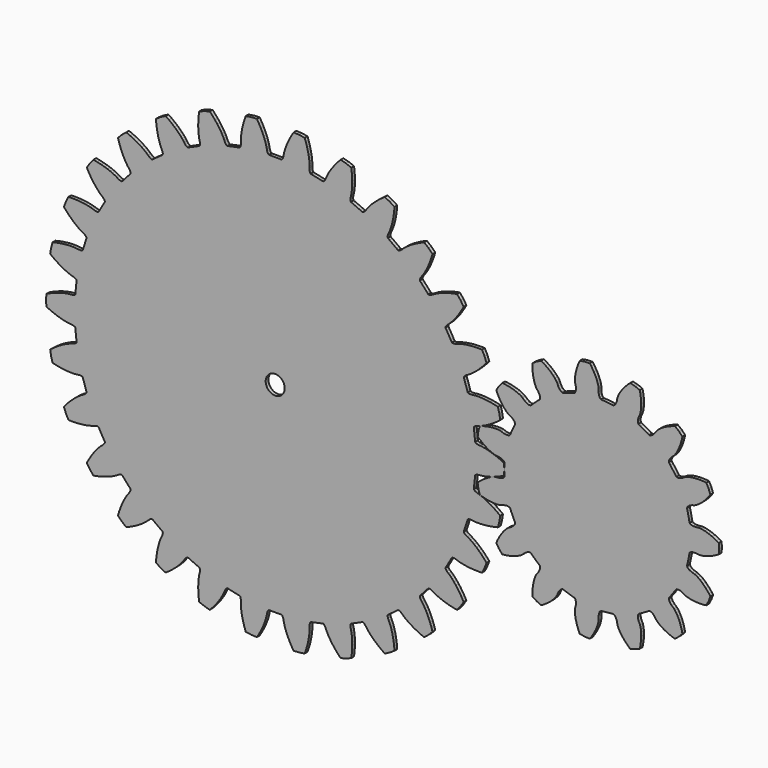
from build123d import *

# Parameters (mm, degrees)
F0_R     = 5.7700126409
F1_DEPTH = 4
F0_R_2   = 11
F2_DEPTH = 4


with BuildPart() as f1:
    # F0 (on Front) → F1 (new body)
    with BuildSketch(Plane.XZ):
        Polygon((114.9913551781, 35.7985797549), (112.1215935407, 34.8170660905), (110.5144807482, 29.2123966515), (109.7030266481, 23.4386052753), (111.9254650622, 21.3747094814), (116.350951765, 17.9069639934), (120.3624429906, 15.2737411137), (123.8561477626, 13.3782546606), (126.7418230932, 12.1126313744), (128.9438500898, 11.3594919007), (130.4021715823, 10.9936817938), (131.0730162596, 10.8840457954), (134.4409838148, 10.6200619755), (137.4597964027, 9.8402621613), (139.5397876451, 8.7015704845), (140.6481175186, 7.3563960426), (140.7709206844, 5.9596232683), (140.6481175186, 4.4971964122), (140.6481175186, -4.4971964122), (140.7709206844, -5.9596232683), (140.6481175186, -7.3563960426), (139.5397876451, -8.7015704845), (137.4597964027, -9.8402621613), (134.4409838148, -10.6200619755), (131.0730162596, -10.8840457954), (130.4021715823, -10.9936817938), (128.9438500898, -11.3594919007), (126.7418230932, -12.1126313744), (123.8561477626, -13.3782546606), (120.3624429906, -15.2737411137), (116.350951765, -17.9069639934), (111.9254650622, -21.3747094814), (109.7030266481, -23.4386052753), (110.5144807482, -29.2123966515), (112.1215935407, -34.8170660905), (114.9913551781, -35.7985797549), (120.4446945119, -37.1665168942), (125.1804030259, -37.9404659162), (129.1430251346, -38.2510598932), (132.2939969628, -38.2335565617), (134.6119781209, -38.0259371043), (136.0930074958, -37.7669674249), (136.7504484352, -37.5942680801), (139.9346122575, -36.4655527541), (143.0096074524, -35.9500743054), (145.3729207099, -36.144313105), (146.9325636135, -36.9223905707), (147.6128682255, -38.1484575395), (148.0955066508, -39.5344000012), (151.7538558308, -47.751188501), (152.4608640584, -49.0372318597), (152.9167959831, -50.3631979316), (152.4514156637, -52.0428743952), (151.0143999406, -53.929128829), (148.5737512119, -55.8693732654), (145.6043299269, -57.480412551), (145.0360760633, -57.853426518), (143.8526206333, -58.7807626545), (142.1472964663, -60.3644347731), (140.0258794226, -62.6943483161), (137.6051833955, -65.8469790227), (135.0115341432, -69.8841698818), (132.3791104101, -74.8521184946), (131.1882722497, -77.6415298296), (134.2779838603, -82.5861012387), (138.0257797665, -87.0525492568), (141.0466551337, -86.7819703133), (146.5849203894, -85.8135690012), (151.2259978213, -84.5944231618), (154.9723627646, -83.2664202757), (157.8437977055, -81.9688138129), (159.8769335653, -80.8363364391), (161.1245919191, -79.9973680366), (161.6549483438, -79.572193161), (164.1047367714, -77.2459435757), (166.7042223909, -75.5243162397), (168.9422196424, -74.7405178071), (170.6834967543, -74.8169618113), (171.8036724626, -75.660326963), (172.8082979101, -76.7301420063), (179.4924356225, -82.7485674671), (180.6613996673, -83.6358597202), (181.6172338932, -84.661744777), (181.8752746007, -86.3854925924), (181.3297026543, -88.6931598541), (179.889227809, -91.4583631037), (177.8317944285, -94.1378903299), (177.4643860283, -94.7097850711), (176.760430137, -96.0383043733), (175.8466766087, -98.1786787915), (174.8563261709, -101.1700174671), (173.9271984456, -105.0346763118), (173.1998566957, -109.7777646712), (172.8156633304, -115.3869174095), (172.8623369576, -118.4195260962), (177.6960693208, -121.6799175472), (182.9365154062, -124.235856886), (185.5861712801, -122.7599714769), (190.2517424131, -119.6226774622), (193.9957070314, -116.6212326105), (196.87803287, -113.8842591446), (198.9734358145, -111.5309193529), (200.3701768538, -109.6693980755), (201.1687292071, -108.3954948221), (201.480301201, -107.7913630237), (202.7721232268, -104.6698096019), (204.4466211046, -102.0397198386), (206.1723364941, -100.4134073312), (207.7941657022, -99.7750016615), (209.1605247432, -100.0898365972), (210.5134252311, -100.6585434068), (219.0676036436, -103.437963966), (220.4964028697, -103.7730862641), (221.7868631726, -104.3215057114), (222.7237054039, -105.7912720228), (223.1639169309, -108.121335586), (222.9726843075, -111.2333684881), (222.1829889227, -114.5180747698), (222.0799567031, -115.1899638193), (221.9772158691, -116.6899505686), (222.0130274487, -119.0169358305), (222.3249860334, -122.1524757615), (223.0480868246, -126.0609232274), (224.3128128739, -130.6897884289), (226.2432829099, -135.9702668576), (227.5193931929, -138.7217115136), (233.2613485278, -139.7341726375), (239.0883307598, -139.9376549963), (240.9086108763, -137.5116563282), (243.8947709662, -132.7479372908), (246.0942562725, -128.4831742727), (247.6141668733, -124.8104750729), (248.5712214568, -121.8083147397), (249.0900580524, -119.5396267942), (249.3014309027, -118.0510560137), (249.3403409788, -117.3724275902), (249.2508307823, -113.995314566), (249.7108074854, -110.9115258727), (250.6258448413, -108.7239065961), (251.8477949065, -107.4810373524), (253.2240812532, -107.2129048939), (254.6913318393, -107.1821680399), (263.6364545311, -106.2419993966), (265.0780343338, -105.9670035088), (266.479991464, -105.9431300841), (267.9336479018, -106.9047833671), (269.2835220184, -108.8543521428), (270.374602441, -111.7751149165), (270.9891895012, -115.0970406607), (271.1683454893, -115.7527505965), (271.6845884646, -117.1648456378), (272.6637739292, -119.2760843803), (274.2241005792, -122.0136579274), (276.4743937263, -125.2900928969), (279.5125098894, -129.0043621483), (283.4238452463, -133.0431253357), (285.7087440405, -135.0376540451), (291.3660850342, -133.6271197921), (296.7720612243, -131.4429625227), (297.4482287377, -128.4863275843), (298.2386424891, -122.9198729349), (298.5133354512, -118.1292050564), (298.4080211919, -114.1558247603), (298.0612463546, -111.0239459019), (297.6124692448, -108.7403655554), (297.2001095659, -107.2945159439), (296.95963566, -106.6587327446), (295.5042655286, -103.6099939894), (294.6701872113, -100.6057247168), (294.6163299192, -98.2350546939), (295.2271174264, -96.6026230887), (296.375355588, -95.7978852825), (297.7032574989, -95.173024716), (305.4926323584, -90.6758254188), (306.6977282185, -89.8382620142), (307.968769546, -89.2462270461), (309.6878898117, -89.5334842094), (311.714023762, -90.7654596705), (313.8987551475, -92.9899291288), (315.8113583413, -95.7746840642), (316.2417262277, -96.3008341501), (317.2876880414, -97.3808736547), (319.0409379282, -98.9113174125), (321.5798384215, -100.7775700997), (324.9682289342, -102.8554668278), (329.2544131219, -105.0129060565), (334.4703106911, -107.1116181029), (337.3689166186, -108.0043572474), (341.9634415935, -104.4147231405), (346.0136697947, -100.2205879546), (345.4288069515, -97.2445426958), (343.8868029747, -91.8378452541), (342.1892106238, -87.3496269806), (340.4768787772, -83.7625980342), (338.886236484, -81.0425278186), (337.5474407904, -79.1389085335), (336.5826543909, -77.9857831717), (336.1043694396, -77.5027725806), (333.5347926775, -75.3095621624), (331.5508750202, -72.9042778374), (330.5374358793, -70.7604702621), (330.4314494135, -69.0207395134), (331.1531019316, -67.8185430843), (332.112046194, -66.7075993953), (337.3988197059, -59.4309795388), (338.1590620644, -58.1756701492), (339.0794136014, -57.1178394208), (340.7667468709, -56.681032201), (343.11879995, -56.9823970437), (346.0194253817, -58.1259384156), (348.8993364703, -59.8920150391), (349.50650041, -60.1976294957), (350.9013258052, -60.7588641397), (353.1254865679, -61.4438799665), (356.2039610801, -62.1161267567), (360.144567708, -62.63619525), (364.9377022666, -62.863767409), (370.5562860896, -62.6595378336), (373.5674043664, -62.2961280517), (376.3046721029, -57.1480713988), (378.2988315315, -51.6691622568), (376.5540664474, -49.1882965444), (372.9462741127, -44.8762194277), (369.5699227301, -41.4665000656), (366.5466556929, -38.8860554858), (363.9871793368, -37.0481220176), (361.9898579416, -35.8536141295), (360.6394587538, -35.1925957827), (360.0060701095, -34.9458816088), (356.766583412, -33.9874249124), (353.9758680542, -32.5970193464), (352.1780794446, -31.0507571007), (351.373644564, -29.5045439), (351.5439320437, -28.1127593011), (351.9681058222, -26.7078219598), (353.8381465223, -17.9099759397), (354.0220829655, -16.453976877), (354.4326077806, -15.1132568844), (355.7963962812, -14.0279147388), (358.067680732, -13.3465599846), (361.1826534552, -13.2114464981), (364.5319117464, -13.6534726938), (365.2108892556, -13.685709751), (366.7134003852, -13.6310937022), (369.0238949528, -13.3522405614), (372.1096483351, -12.7142387925), (375.921101899, -11.5865562987), (380.3924082672, -9.844909906), (385.4421727654, -7.3730540673), (388.0451521272, -5.8163307898), (388.4518687343, 0), (388.0451521272, 5.8163307898), (385.4421727654, 7.3730540673), (380.3924082672, 9.844909906), (375.921101899, 11.5865562987), (372.1096483351, 12.7142387925), (369.0238949528, 13.3522405614), (366.7134003852, 13.6310937022), (365.2108892556, 13.685709751), (364.5319117464, 13.6534726938), (361.1826534552, 13.2114464981), (358.067680732, 13.3465599846), (355.7963962812, 14.0279147388), (354.4326077806, 15.1132568844), (354.0220829655, 16.453976877), (353.8381465223, 17.9099759397), (351.9681058222, 26.7078219598), (351.5439320437, 28.1127593011), (351.373644564, 29.5045439), (352.1780794446, 31.0507571007), (353.9758680542, 32.5970193464), (356.766583412, 33.9874249124), (360.0060701095, 34.9458816088), (360.6394587538, 35.1925957827), (361.9898579416, 35.8536141295), (363.9871793368, 37.0481220176), (366.5466556929, 38.8860554858), (369.5699227301, 41.4665000656), (372.9462741127, 44.8762194277), (376.5540664474, 49.1882965444), (378.2988315315, 51.6691622568), (376.3046721029, 57.1480713988), (373.5674043664, 62.2961280517), (370.5562860896, 62.6595378336), (364.9377022666, 62.863767409), (360.144567708, 62.63619525), (356.2039610801, 62.1161267567), (353.1254865679, 61.4438799665), (350.9013258052, 60.7588641397), (349.50650041, 60.1976294957), (348.8993364703, 59.8920150391), (346.0194253817, 58.1259384156), (343.11879995, 56.9823970437), (340.7667468709, 56.681032201), (339.0794136014, 57.1178394208), (338.1590620644, 58.1756701492), (337.3988197059, 59.4309795388), (332.112046194, 66.7075993953), (331.1531019316, 67.8185430843), (330.4314494135, 69.0207395134), (330.5374358793, 70.7604702621), (331.5508750202, 72.9042778374), (333.5347926775, 75.3095621624), (336.1043694396, 77.5027725806), (336.5826543909, 77.9857831717), (337.5474407904, 79.1389085335), (338.886236484, 81.0425278186), (340.4768787772, 83.7625980342), (342.1892106238, 87.3496269806), (343.8868029747, 91.8378452541), (345.4288069515, 97.2445426958), (346.0136697947, 100.2205879546), (341.9634415935, 104.4147231405), (337.3689166186, 108.0043572474), (334.4703106911, 107.1116181029), (329.2544131219, 105.0129060565), (324.9682289342, 102.8554668278), (321.5798384215, 100.7775700997), (319.0409379282, 98.9113174125), (317.2876880414, 97.3808736547), (316.2417262277, 96.3008341501), (315.8113583413, 95.7746840642), (313.8987551475, 92.9899291288), (311.714023762, 90.7654596705), (309.6878898117, 89.5334842094), (307.968769546, 89.2462270461), (306.6977282185, 89.8382620142), (305.4926323584, 90.6758254188), (297.7032574989, 95.173024716), (296.375355588, 95.7978852825), (295.2271174264, 96.6026230887), (294.6163299192, 98.2350546939), (294.6701872113, 100.6057247168), (295.5042655286, 103.6099939894), (296.95963566, 106.6587327446), (297.2001095659, 107.2945159439), (297.6124692448, 108.7403655554), (298.0612463546, 111.0239459019), (298.4080211919, 114.1558247603), (298.5133354512, 118.1292050564), (298.2386424891, 122.9198729349), (297.4482287377, 128.4863275843), (296.7720612243, 131.4429625227), (291.3660850342, 133.6271197921), (285.7087440405, 135.0376540451), (283.4238452463, 133.0431253357), (279.5125098894, 129.0043621483), (276.4743937263, 125.2900928969), (274.2241005792, 122.0136579274), (272.6637739292, 119.2760843803), (271.6845884646, 117.1648456378), (271.1683454893, 115.7527505965), (270.9891895012, 115.0970406607), (270.374602441, 111.7751149165), (269.2835220184, 108.8543521428), (267.9336479018, 106.9047833671), (266.479991464, 105.9431300841), (265.0780343338, 105.9670035088), (263.6364545311, 106.2419993966), (254.6913318393, 107.1821680399), (253.2240812532, 107.2129048939), (251.8477949065, 107.4810373524), (250.6258448413, 108.7239065961), (249.7108074854, 110.9115258727), (249.2508307823, 113.995314566), (249.3403409788, 117.3724275902), (249.3014309027, 118.0510560137), (249.0900580524, 119.5396267942), (248.5712214568, 121.8083147397), (247.6141668733, 124.8104750729), (246.0942562725, 128.4831742727), (243.8947709662, 132.7479372908), (240.9086108763, 137.5116563282), (239.0883307598, 139.9376549963), (233.2613485278, 139.7341726375), (227.5193931929, 138.7217115136), (226.2432829099, 135.9702668576), (224.3128128739, 130.6897884289), (223.0480868246, 126.0609232274), (222.3249860334, 122.1524757615), (222.0130274487, 119.0169358305), (221.9772158691, 116.6899505686), (222.0799567031, 115.1899638193), (222.1829889227, 114.5180747698), (222.9726843075, 111.2333684881), (223.1639169309, 108.121335586), (222.7237054039, 105.7912720228), (221.7868631726, 104.3215057114), (220.4964028697, 103.7730862641), (219.0676036436, 103.437963966), (210.5134252311, 100.6585434068), (209.1605247432, 100.0898365972), (207.7941657022, 99.7750016615), (206.1723364941, 100.4134073312), (204.4466211046, 102.0397198386), (202.7721232268, 104.6698096019), (201.480301201, 107.7913630237), (201.1687292071, 108.3954948221), (200.3701768538, 109.6693980755), (198.9734358145, 111.5309193529), (196.87803287, 113.8842591446), (193.9957070314, 116.6212326105), (190.2517424131, 119.6226774622), (185.5861712801, 122.7599714769), (182.9365154062, 124.235856886), (177.6960693208, 121.6799175472), (172.8623369576, 118.4195260962), (172.8156633304, 115.3869174095), (173.1998566957, 109.7777646712), (173.9271984456, 105.0346763118), (174.8563261709, 101.1700174671), (175.8466766087, 98.1786787915), (176.760430137, 96.0383043733), (177.4643860283, 94.7097850711), (177.8317944285, 94.1378903299), (179.889227809, 91.4583631037), (181.3297026543, 88.6931598541), (181.8752746007, 86.3854925924), (181.6172338932, 84.661744777), (180.6613996673, 83.6358597202), (179.4924356225, 82.7485674671), (172.8082979101, 76.7301420063), (171.8036724626, 75.660326963), (170.6834967543, 74.8169618113), (168.9422196424, 74.7405178071), (166.7042223909, 75.5243162397), (164.1047367714, 77.2459435757), (161.6549483438, 79.572193161), (161.1245919191, 79.9973680366), (159.8769335653, 80.8363364391), (157.8437977055, 81.9688138129), (154.9723627646, 83.2664202757), (151.2259978213, 84.5944231618), (146.5849203894, 85.8135690012), (141.0466551337, 86.7819703133), (138.0257797665, 87.0525492568), (134.2779838603, 82.5861012387), (131.1882722497, 77.6415298296), (132.3791104101, 74.8521184946), (135.0115341432, 69.8841698818), (137.6051833955, 65.8469790227), (140.0258794226, 62.6943483161), (142.1472964663, 60.3644347731), (143.8526206333, 58.7807626545), (145.0360760633, 57.853426518), (145.6043299269, 57.480412551), (148.5737512119, 55.8693732654), (151.0143999406, 53.929128829), (152.4514156637, 52.0428743952), (152.9167959831, 50.3631979316), (152.4608640584, 49.0372318597), (151.7538558308, 47.751188501), (148.0955066508, 39.5344000012), (147.6128682255, 38.1484575395), (146.9325636135, 36.9223905707), (145.3729207099, 36.144313105), (143.0096074524, 35.9500743054), (139.9346122575, 36.4655527541), (136.7504484352, 37.5942680801), (136.0930074958, 37.7669674249), (134.6119781209, 38.0259371043), (132.2939969628, 38.2335565617), (129.1430251346, 38.2510598932), (125.1804030259, 37.9404659162), (120.4446945119, 37.1665168942), align=None)
        with Locations((248.4400570393, -0.0083397598)):
            Circle(F0_R, mode=Mode.SUBTRACT)
        with Locations((248.4400570393, -0.0083397598)):
            Circle(F0_R)
        with BuildLine():
            Line((246.9400570393, 1.9916602402), (249.9400570393, 1.9916602402))
            ThreePointArc((249.9400570393, 1.9916602402), (248.4400570393, -2.5083397598), (246.9400570393, 1.9916602402))
        make_face(mode=Mode.SUBTRACT)
        with BuildLine():
            ThreePointArc((246.9400570393, 1.9916602402), (248.4400570393, -2.5083397598), (249.9400570393, 1.9916602402))
            Line((249.9400570393, 1.9916602402), (246.9400570393, 1.9916602402))
        make_face()
    extrude(amount=F1_DEPTH)


with BuildPart() as f2:
    # F0 (on Front) → F2 (new body)
    with BuildSketch(Plane.XZ):
        Polygon((128.4926120699, -62.3022846545), (133.0434118938, -61.2615389317), (134.7243923801, -54.9880414346), (135.7404020613, -48.5731988382), (132.0063474387, -45.7714541024), (128.3046337334, -43.2290742919), (124.8485321296, -41.0626021093), (121.6624209283, -39.2466235368), (118.7689589665, -37.7543657186), (116.1890308028, -36.5578008213), (113.9416688217, -35.6277527791), (112.0440013041, -34.933992499), (110.5111918414, -34.4453503763), (109.9140042525, -34.2821830914), (108.0557488019, -33.6625818908), (106.6600838699, -32.9657058043), (105.7294617115, -32.2292157003), (105.263989072, -31.4908012972), (105.2614300716, -30.7880657635), (105.5265534689, -28.9926630538), (106.5393290584, -19.3567458682), (106.6532867957, -17.5454525454), (106.8018934553, -16.8586047398), (107.4107220434, -16.233106587), (108.4741323734, -15.7061948594), (109.9841849087, -15.3147255091), (111.930658073, -15.0950149914), (112.5487186803, -15.0595755776), (114.1496258249, -14.9003001659), (116.1500659116, -14.6162482442), (118.5416868481, -14.1737748726), (121.3140160626, -13.539757297), (124.4545066639, -12.6816930397), (127.9485605217, -11.5678268396), (131.7795715413, -10.1672631674), (135.9289833641, -8.4500700857), (140.1639558102, -6.4859031795), (140.5038672182, 0), (140.1639558102, 6.4859031795), (135.9289833641, 8.4500700857), (131.7795715413, 10.1672631674), (127.9485605217, 11.5678268396), (124.4545066639, 12.6816930397), (121.3140160626, 13.539757297), (118.5416868481, 14.1737748726), (116.1500659116, 14.6162482442), (114.1496258249, 14.9003001659), (112.5487186803, 15.0595755776), (111.930658073, 15.0950149914), (109.9841849087, 15.3147255091), (108.4741323734, 15.7061948594), (107.4107220434, 16.233106587), (106.8018934553, 16.8586047398), (106.6532867957, 17.5454525454), (106.5393290584, 19.3567458682), (105.5265534689, 28.9926630538), (105.2614300716, 30.7880657635), (105.263989072, 31.4908012972), (105.7294617115, 32.2292157003), (106.6600838699, 32.9657058043), (108.0557488019, 33.6625790058), (109.9140042525, 34.2821830914), (110.5111918414, 34.4453503763), (112.0440013041, 34.933992499), (113.9416688217, 35.6277527791), (116.1890308028, 36.5578008213), (118.7689589665, 37.7543657186), (121.6624209283, 39.2466235368), (124.8485321296, 41.0626021093), (128.3046337334, 43.2290742919), (132.0063474387, 45.7714541024), (135.7404020613, 48.5731988382), (134.7243923801, 54.9880414346), (133.0434118938, 61.2615389317), (128.4926120699, 62.3022846545), (124.0768478373, 63.1192404611), (120.0383587255, 63.6926873356), (116.3890771194, 64.0557595718), (113.1388120395, 64.242128075), (110.2952433716, 64.2858907311), (107.8638901323, 64.2214483519), (105.8481075836, 64.0833806193), (104.249069923, 63.9063278006), (103.6371428384, 63.8124900951), (101.6875279026, 63.6227028598), (100.1290793915, 63.6916631584), (98.9793583367, 63.9859626214), (98.2537850954, 64.4712119772), (97.9656220402, 65.1121535672), (97.4775655736, 66.8601700531), (94.4835034523, 76.0749513716), (93.8508879896, 77.7759999597), (93.7072839305, 78.4639094476), (94.0090584441, 79.2829655386), (94.7662196162, 80.1968488921), (95.9864963779, 81.1686689363), (97.6753240805, 82.1610850384), (98.2255380016, 82.4448484595), (99.6232541729, 83.2415024788), (101.3352138537, 84.3146525891), (103.3400968497, 85.6916284522), (105.6148692728, 87.3984412823), (108.1348441267, 89.4596742156), (110.8737678566, 91.8983986453), (113.8039126698, 94.7360934409), (116.8961428906, 97.9925439738), (119.966083555, 101.5094182291), (117.638555912, 107.5728411286), (114.6899759104, 113.3597535121), (110.0222352529, 113.4315901618), (105.5331139725, 113.3126067439), (101.4636485512, 113.0338718884), (97.818625214, 112.6302826277), (94.6006375813, 112.1368110049), (91.8101097489, 111.5884059826), (89.4452876332, 111.0198636184), (87.502259166, 110.4657058941), (85.9749744899, 109.9600653159), (85.3959307038, 109.7410529698), (83.5283768788, 109.1500652588), (81.9896502688, 108.8934987894), (80.8038608689, 108.9423246311), (79.9932578455, 109.2661146255), (79.5781314459, 109.8331394766), (78.7373079845, 111.4414841666), (73.8928087789, 119.832400089), (72.9203511484, 121.3647479508), (72.6368589179, 122.0077696301), (72.761750828, 122.8716702545), (73.3123599949, 123.9230039494), (74.3039163652, 125.1272977778), (75.7495034412, 126.4491556011), (76.2286971693, 126.8411125175), (77.430235817, 127.9109592959), (78.8816650302, 129.3165948087), (80.5564485236, 131.0803201523), (82.426645014, 133.2227861999), (84.4629976556, 135.7629070507), (86.6350292447, 138.7177965604), (88.9111518506, 142.1026904458), (91.2587562505, 145.9308914696), (93.5304128671, 150.0091907793), (89.9930896892, 155.4561917549), (85.9057776207, 160.5036020881), (81.3251035596, 159.6033907781), (76.9588171801, 158.5536669166), (73.0362331847, 157.4349365964), (69.5547723782, 156.2823189956), (66.5097033506, 155.1305755516), (63.8941770977, 154.0139714809), (61.6992356759, 152.9661776884), (59.9138814422, 152.0201524829), (58.5251030195, 151.2080204063), (58.0042469196, 150.8734029844), (56.3003767956, 149.9070442565), (54.8486186917, 149.3361650375), (53.6785900797, 149.1373852384), (52.818379378, 149.2855678021), (52.2944334366, 149.7538879425), (51.137592187, 151.1522705502), (44.6543893732, 158.3525993078), (43.3845885983, 159.6492739136), (42.9735992973, 160.219302056), (42.9161472876, 161.0902911401), (43.2361377291, 162.2331314556), (43.9556409178, 163.6172650186), (45.0948086205, 165.2107894327), (45.4820370121, 165.6938115638), (46.4348881418, 166.9900938088), (47.5623513752, 168.6667814062), (48.8338369936, 170.7401717549), (50.217719561, 173.2246552648), (51.6814533249, 176.1326518869), (53.1916645355, 179.4745591827), (54.714289927, 183.2587177048), (56.2146661521, 187.4913561809), (57.5887570092, 191.9528391038), (52.9962342284, 196.5453589995), (47.9488238952, 200.632673953), (43.6554127674, 198.7997575102), (39.6027928962, 196.8651705707), (35.9985231539, 194.9553340977), (32.8327829799, 193.1040690167), (30.0937178847, 191.3443884514), (27.7675000345, 189.7083852088), (25.8383744113, 188.2271365735), (24.2887251685, 186.9305889079), (23.0991448707, 185.8474595619), (22.6592420395, 185.4118640446), (21.1935233915, 184.1123679028), (19.8921808459, 183.252122581), (18.7890497532, 182.8144267794), (17.9168287715, 182.7805221887), (17.3069615812, 183.129674271), (15.8846593887, 184.2569788291), (8.0460980617, 189.9520268513), (6.5344501181, 190.9563637982), (6.0139286789, 191.4284863766), (5.7766427047, 192.2684933812), (5.8520307967, 193.4528893232), (6.2680342382, 194.9563698148), (7.050996019, 196.7519196598), (7.3293356288, 197.3048974166), (7.9918512937, 198.7709593802), (8.7460755297, 200.6454199096), (9.5586922873, 202.9378601095), (10.3957825509, 205.6557752256), (11.2229224287, 208.8045515642), (12.0053129784, 212.387423217), (12.7078927218, 216.4054605212), (13.2954674706, 220.8575527494), (13.7119353981, 225.5072303842), (8.2649344225, 229.0445535621), (2.478019154, 231.9931335637), (-1.3404853646, 229.3076228351), (-4.9023224386, 226.5727208036), (-8.0307537148, 223.9552500566), (-10.7424170229, 221.4862474889), (-13.0557677464, 219.1955354076), (-14.9910066973, 217.1116349821), (-16.5700079912, 215.2616681538), (-17.8162267269, 213.6712595461), (-18.7546153215, 212.3644729942), (-19.0943392041, 211.8469346512), (-20.2578477026, 210.2710953239), (-21.3518996814, 209.1590870677), (-22.3399219193, 208.5015999682), (-23.1860335967, 208.2870911164), (-23.8551674655, 208.5018163437), (-25.4807702614, 209.3087727195), (-34.3321071779, 213.2496418829), (-36.0195327676, 213.9177400345), (-36.6268409576, 214.271323486), (-37.0335892998, 215.0436424796), (-37.2060982341, 216.2178312703), (-37.1117758477, 217.7749469087), (-36.719239045, 219.694047136), (-36.5619514024, 220.2928099381), (-36.2187251225, 221.864581407), (-35.8707068476, 223.8548922376), (-35.5524704898, 226.2661889151), (-35.2987601763, 229.09875417), (-35.1443633097, 232.3506925535), (-35.1239893973, 236.017936207), (-35.2721604209, 240.0942448626), (-35.6230665868, 244.5712116126), (-36.1824230919, 249.2058699062), (-42.2458459914, 251.5334004342), (-48.5193434885, 253.2143809205), (-51.6960582253, 249.7936408354), (-54.6114433477, 246.3779581659), (-57.127307068, 243.1672494033), (-59.2663774635, 240.1884114587), (-61.0529116647, 237.4667833398), (-62.51259488, 235.026062486), (-63.6724596159, 232.8882297581), (-64.5607818162, 231.0734744282), (-65.2069683472, 229.6001393644), (-65.4316670402, 229.0232795278), (-66.2421142733, 227.2399678784), (-67.0810595957, 225.924791729), (-67.910790209, 225.0762537616), (-68.6938154599, 224.6905140331), (-69.3929678162, 224.7614274808), (-71.1508221726, 225.2127693609), (-80.6280899928, 227.2272248068), (-82.4175467051, 227.5298879022), (-83.0850995905, 227.7494772496), (-83.6435328937, 228.420350777), (-84.0564003337, 229.5330139296), (-84.2878816758, 231.0757131928), (-84.3029269822, 233.0344880228), (-84.273566276, 233.6528717508), (-84.2646285274, 235.2616549617), (-84.3380230803, 237.2808302775), (-84.5280786211, 239.705599933), (-84.8688353359, 242.5290139489), (-85.3939295096, 245.7419932113), (-86.1364637012, 249.3333352417), (-87.1289086534, 253.2897603575), (-88.4029619271, 257.5959347518), (-89.9136924388, 262.0130203172), (-96.3285350353, 263.0290328834), (-102.8144382148, 263.3689442915), (-105.2105222556, 259.3624816314), (-107.3520391362, 255.4152971898), (-109.1453819515, 251.7516684488), (-110.6183736996, 248.3931896784), (-111.8000086909, 245.3595943198), (-112.7203400328, 242.6687261349), (-113.4103786551, 240.3364584271), (-113.9019807941, 238.37666519), (-114.2277239375, 236.8011807184), (-114.3275739955, 236.1902056858), (-114.7495407444, 234.2773630366), (-115.2967109841, 232.8165027387), (-115.9318912172, 231.8139948856), (-116.6176052154, 231.2738842556), (-117.3162238456, 231.1978874273), (-119.1295049375, 231.2738842556), (-128.8184975787, 231.2738842556), (-130.6317786706, 231.1978874273), (-131.3303973007, 231.2738842556), (-132.016111299, 231.8139948856), (-132.651291532, 232.8165027387), (-133.1984617717, 234.2773630366), (-133.6204285206, 236.1902056858), (-133.7202785786, 236.8011807184), (-134.0460217221, 238.37666519), (-134.5376238611, 240.3364584271), (-135.2276624833, 242.6687261349), (-136.1479938253, 245.3595943198), (-137.3296288165, 248.3931896784), (-138.8026205646, 251.7516684488), (-140.59596338, 255.4152971898), (-142.7374802605, 259.3624816314), (-145.1335643014, 263.3689442915), (-151.6194674808, 263.0290328834), (-158.0343100773, 262.0130203172), (-159.545040589, 257.5959347518), (-160.8190938628, 253.2897603575), (-161.8115388149, 249.3333352417), (-162.5540730065, 245.7419932113), (-163.0791671803, 242.5290139489), (-163.419923895, 239.705599933), (-163.6099794359, 237.2808302775), (-163.6833739888, 235.2616549617), (-163.6744362402, 233.6528717508), (-163.645075534, 233.0344880228), (-163.6601208403, 231.0757131928), (-163.8916021825, 229.5330139296), (-164.3044696225, 228.420350777), (-164.8629029256, 227.7494772496), (-165.5304558111, 227.5298879022), (-167.3199125233, 227.2272248068), (-176.7971803435, 225.2127693609), (-178.5550347, 224.7614274808), (-179.2541870562, 224.6905140331), (-180.0372123072, 225.0762537616), (-180.8669429204, 225.924791729), (-181.7058882429, 227.2399678784), (-182.516335476, 229.0232795278), (-182.741034169, 229.6001393644), (-183.3872206999, 231.0734744282), (-184.2755429002, 232.8882297581), (-185.4354076361, 235.026062486), (-186.8950908515, 237.4667833398), (-188.6816250527, 240.1884114587), (-190.8206954481, 243.1672494033), (-193.3365591684, 246.3779581659), (-196.2519442909, 249.7936408354), (-199.4286590277, 253.2143809205), (-205.7021565247, 251.5334004342), (-211.7655794242, 249.2058699062), (-212.3249359293, 244.5712116126), (-212.6758420952, 240.0942448626), (-212.8240131189, 236.017936207), (-212.8036392064, 232.3506925535), (-212.6492423398, 229.09875417), (-212.3955320264, 226.2661889151), (-212.0772956685, 223.8548922376), (-211.7292773936, 221.864581407), (-211.3860511137, 220.2928099381), (-211.2287634711, 219.694047136), (-210.8362266685, 217.7749469087), (-210.741904282, 216.2178312703), (-210.9144132164, 215.0436424796), (-211.3211615586, 214.271323486), (-211.9284697485, 213.9177400345), (-213.6158953383, 213.2496418829), (-222.4672322547, 209.3087727195), (-224.0928350507, 208.5018163437), (-224.7619689194, 208.2870911164), (-225.6080805968, 208.5015999682), (-226.5961028348, 209.1590870677), (-227.6901519286, 210.2710953239), (-228.853663312, 211.8469346512), (-229.1933843096, 212.3644729942), (-230.1317757892, 213.6712595461), (-231.377994525, 215.2616681538), (-232.9569958189, 217.1116349821), (-234.8922347698, 219.1955354076), (-237.2055854933, 221.4862474889), (-239.9172488014, 223.9552500566), (-243.0456800776, 226.5727208036), (-246.6075171516, 229.3076228351), (-250.4260216701, 231.9931335637), (-256.2129369387, 229.0445535621), (-261.6599379143, 225.5072303842), (-261.2434699868, 220.8575527494), (-260.6558952379, 216.4054605212), (-259.9533154945, 212.387423217), (-259.1709249449, 208.8045515642), (-258.343785067, 205.6557752256), (-257.5066948035, 202.9378601095), (-256.6940780459, 200.6454199096), (-255.9398538099, 198.7709593802), (-255.2773381449, 197.3048974166), (-254.9989985352, 196.7519196598), (-254.2160338693, 194.9563698148), (-253.8000333129, 193.4528893232), (-253.7246452208, 192.2684933812), (-253.9619311951, 191.4284863766), (-254.4824526343, 190.9563637982), (-255.9941005779, 189.9520268513), (-263.8326619048, 184.2569788291), (-265.2549640973, 183.129674271), (-265.8648312876, 182.7805221887), (-266.7370522694, 182.8144267794), (-267.8401833621, 183.252122581), (-269.1415259077, 184.1123679028), (-270.6072445556, 185.4118640446), (-271.0471473869, 185.8474595619), (-272.2367276847, 186.9305889079), (-273.7863769274, 188.2271365735), (-275.7155025506, 189.7083852088), (-278.0417204009, 191.3443884514), (-280.7807854961, 193.1040690167), (-283.94652567, 194.9553340977), (-287.5507954124, 196.8651705707), (-291.6034152836, 198.7997575102), (-295.8968264113, 200.632673953), (-300.9442367446, 196.5453589995), (-305.5367595253, 191.9528391038), (-304.1626686682, 187.4913561809), (-302.6622924431, 183.2587177048), (-301.1396670516, 179.4745591827), (-299.629455841, 176.1326518869), (-298.1657220772, 173.2246552648), (-296.7818395097, 170.7401717549), (-295.5103538913, 168.6667814062), (-294.3828906579, 166.9900938088), (-293.4300395282, 165.6938115638), (-293.0428111367, 165.2107894327), (-291.9036434339, 163.6172650186), (-291.1841402453, 162.2331314556), (-290.8641498037, 161.0902911401), (-290.9216018134, 160.219302056), (-291.3325911145, 159.6492739136), (-292.6023918893, 158.3525993078), (-299.0855947032, 151.1522705502), (-300.2424359528, 149.7538879425), (-300.7663818941, 149.2855678021), (-301.6265925958, 149.1373852384), (-302.7966212079, 149.3361650375), (-304.2483793118, 149.9070442565), (-305.9522494358, 150.8734029844), (-306.4731055357, 151.2080204063), (-307.8618839583, 152.0201524829), (-309.6472381921, 152.9661776884), (-311.8421796139, 154.0139714809), (-314.4577058668, 155.1305755516), (-317.5027748944, 156.2823189956), (-320.9842357009, 157.4349365964), (-324.9068196963, 158.5536669166), (-329.2731060758, 159.6033907781), (-333.8537801369, 160.5036020881), (-337.9410922054, 155.4561917549), (-341.4784153832, 150.0091907793), (-339.2067587666, 145.9308914696), (-336.8591543668, 142.1026904458), (-334.5830317608, 138.7177965604), (-332.4110001717, 135.7629070507), (-330.3746475302, 133.2227861999), (-328.5044510398, 131.0803201523), (-326.8296675464, 129.3165948087), (-325.3782383332, 127.9109592959), (-324.1766996855, 126.8411125175), (-323.6975059574, 126.4491556011), (-322.2519188814, 125.1272977778), (-321.260362511, 123.9230039494), (-320.7097533442, 122.8716702545), (-320.584861434, 122.0077696301), (-320.8683536645, 121.3647479508), (-321.8408112951, 119.832400089), (-326.6853105007, 111.4414841666), (-327.526133962, 109.8331394766), (-327.9412603617, 109.2661146255), (-328.7518633851, 108.9423246311), (-329.937652785, 108.8934987894), (-331.476379395, 109.1500652588), (-333.3439332199, 109.7410529698), (-333.922977006, 109.9600653159), (-335.4502616822, 110.4657058941), (-337.3932901493, 111.0198636184), (-339.758112265, 111.5884059826), (-342.5486400974, 112.1368110049), (-345.7666277302, 112.6302826277), (-349.4116510674, 113.0338718884), (-353.4811164887, 113.3126067439), (-357.9702377691, 113.4315901618), (-362.6379784265, 113.3597535121), (-365.5865584281, 107.5728411286), (-367.9140860711, 101.5094182291), (-364.8441454068, 97.9925439738), (-361.7519151859, 94.7360934409), (-358.8217703727, 91.8983986453), (-356.0828466428, 89.4596742156), (-353.562871789, 87.3984412823), (-351.2880993659, 85.6916284522), (-349.2832163699, 84.3146525891), (-347.571256689, 83.2415024788), (-346.1735405177, 82.4448484595), (-345.6233265967, 82.1610850384), (-343.934498894, 81.1686689363), (-342.7142221323, 80.1968488921), (-341.9570609602, 79.2829655386), (-341.6552864467, 78.4639094476), (-341.7988905058, 77.7759999597), (-342.4315059684, 76.0749513716), (-345.4255680898, 66.8601700531), (-345.9136245564, 65.1121535672), (-346.2017876116, 64.4712119772), (-346.9273608529, 63.9859626214), (-348.0770819076, 63.6916631584), (-349.6355304187, 63.6227028598), (-351.5851453546, 63.8124900951), (-352.1970724392, 63.9063278006), (-353.7961100998, 64.0833806193), (-355.8118926485, 64.2214483519), (-358.2432458877, 64.2858907311), (-361.0868145556, 64.242128075), (-364.3370796356, 64.0557595718), (-367.9863612417, 63.6926873356), (-372.0248503535, 63.1192404611), (-376.4406145861, 62.3022846545), (-380.9914144099, 61.2615389317), (-382.6723948962, 54.9880414346), (-383.6884045775, 48.5731988382), (-379.9543499548, 45.7714541024), (-376.2526362495, 43.2290742919), (-372.7965346458, 41.0626021093), (-369.6104234444, 39.2466235368), (-366.7169614826, 37.7543657186), (-364.1370333189, 36.5578008213), (-361.8896713379, 35.6277527791), (-359.9920038202, 34.933992499), (-358.4591943575, 34.4453503763), (-357.8620067686, 34.2821830914), (-356.0037513181, 33.6625818908), (-354.6080863861, 32.9657058043), (-353.6774642277, 32.2292157003), (-353.2119915881, 31.4908012972), (-353.2094325878, 30.7880657635), (-353.474555985, 28.9926630538), (-354.4873315745, 19.3567458682), (-354.6012893119, 17.5454525454), (-354.7498959714, 16.8586047398), (-355.3587245596, 16.233106587), (-356.4221348895, 15.7061948594), (-357.9321874248, 15.3147255091), (-359.8786605891, 15.0950149914), (-360.4967211965, 15.0595755776), (-362.097628341, 14.9003001659), (-364.0980684277, 14.6162482442), (-366.4896893643, 14.1737748726), (-369.2620185787, 13.539757297), (-372.4025091801, 12.6816930397), (-375.8965630378, 11.5678268396), (-379.7275740575, 10.1672631674), (-383.8769858803, 8.4500700857), (-388.1119583263, 6.4859031795), (-388.4518697343, 0), (-388.1119583263, -6.4859031795), (-383.8769858803, -8.4500700857), (-379.7275740575, -10.1672631674), (-375.8965630378, -11.5678268396), (-372.4025091801, -12.6816930397), (-369.2620185787, -13.539757297), (-366.4896893643, -14.1737748726), (-364.0980684277, -14.6162482442), (-362.097628341, -14.9003001659), (-360.4967211965, -15.0595755776), (-359.8786605891, -15.0950149914), (-357.9321874248, -15.3147255091), (-356.4221348895, -15.7061948594), (-355.3587245596, -16.233106587), (-354.7498959714, -16.8586047398), (-354.6012893119, -17.5454525454), (-354.4873315745, -19.3567458682), (-353.474555985, -28.9926630538), (-353.2094325878, -30.7880657635), (-353.2119915881, -31.4908012972), (-353.6774642277, -32.2292157003), (-354.6080863861, -32.9657058043), (-356.0037513181, -33.6625790058), (-357.8620067686, -34.2821830914), (-358.4591943575, -34.4453503763), (-359.9920038202, -34.933992499), (-361.8896713379, -35.6277527791), (-364.1370333189, -36.5578008213), (-366.7169614826, -37.7543657186), (-369.6104234444, -39.2466235368), (-372.7965346458, -41.0626021093), (-376.2526362495, -43.2290742919), (-379.9543499548, -45.7714541024), (-383.6884045775, -48.5731988382), (-382.6723948962, -54.9880414346), (-380.9914144099, -61.2615389317), (-376.4406145861, -62.3022846545), (-372.0248503535, -63.1192404611), (-367.9863612417, -63.6926873356), (-364.3370796356, -64.0557595718), (-361.0868145556, -64.242128075), (-358.2432458877, -64.2858907311), (-355.8118926485, -64.2214483519), (-353.7961100998, -64.0833806193), (-352.1970724392, -63.9063278006), (-351.5851453546, -63.8124900951), (-349.6355304187, -63.6227028598), (-348.0770819076, -63.6916631584), (-346.9273608529, -63.9859626214), (-346.2017876116, -64.4712119772), (-345.9136245564, -65.1121535672), (-345.4255680898, -66.8601700531), (-342.4315059684, -76.0749513716), (-341.7988905058, -77.7759999597), (-341.6552864467, -78.4639094476), (-341.9570609602, -79.2829655386), (-342.7142221323, -80.1968488921), (-343.934498894, -81.1686689363), (-345.6233265967, -82.1610850384), (-346.1735405177, -82.4448484595), (-347.571256689, -83.2415024788), (-349.2832163699, -84.3146525891), (-351.2880993659, -85.6916284522), (-353.562871789, -87.3984412823), (-356.0828466428, -89.4596742156), (-358.8217703727, -91.8983986453), (-361.7519151859, -94.7360934409), (-364.8441454068, -97.9925439738), (-367.9140860711, -101.5094182291), (-365.5865584281, -107.5728411286), (-362.6379784265, -113.3597535121), (-357.9702377691, -113.4315901618), (-353.4811164887, -113.3126067439), (-349.4116510674, -113.0338718884), (-345.7666277302, -112.6302826277), (-342.5486400974, -112.1368110049), (-339.758112265, -111.5884059826), (-337.3932901493, -111.0198636184), (-335.4502616822, -110.4657058941), (-333.922977006, -109.9600653159), (-333.3439332199, -109.7410529698), (-331.476379395, -109.1500652588), (-329.937652785, -108.8934987894), (-328.7518633851, -108.9423246311), (-327.9412603617, -109.2661146255), (-327.526133962, -109.8331394766), (-326.6853105007, -111.4414841666), (-321.8408112951, -119.832400089), (-320.8683536645, -121.3647479508), (-320.584861434, -122.0077696301), (-320.7097533442, -122.8716702545), (-321.260362511, -123.9230039494), (-322.2519188814, -125.1272977778), (-323.6975059574, -126.4491556011), (-324.1766996855, -126.8411125175), (-325.3782383332, -127.9109592959), (-326.8296675464, -129.3165948087), (-328.5044510398, -131.0803201523), (-330.3746475302, -133.2227861999), (-332.4110001717, -135.7629070507), (-334.5830317608, -138.7177965604), (-336.8591543668, -142.1026904458), (-339.2067587666, -145.9308914696), (-341.4784153832, -150.0091907793), (-337.9410922054, -155.4561917549), (-333.8537801369, -160.5036020881), (-329.2731060758, -159.6033907781), (-324.9068196963, -158.5536669166), (-320.9842357009, -157.4349365964), (-317.5027748944, -156.2823189956), (-314.4577058668, -155.1305755516), (-311.8421796139, -154.0139714809), (-309.6472381921, -152.9661776884), (-307.8618839583, -152.0201524829), (-306.4731055357, -151.2080204063), (-305.9522494358, -150.8734029844), (-304.2483793118, -149.9070442565), (-302.7966212079, -149.3361650375), (-301.6265925958, -149.1373852384), (-300.7663818941, -149.2855678021), (-300.2424359528, -149.7538879425), (-299.0855947032, -151.1522705502), (-292.6023918893, -158.3525993078), (-291.3325911145, -159.6492739136), (-290.9216018134, -160.219302056), (-290.8641498037, -161.0902911401), (-291.1841402453, -162.2331314556), (-291.9036434339, -163.6172650186), (-293.0428111367, -165.2107894327), (-293.4300395282, -165.6938115638), (-294.3828906579, -166.9900938088), (-295.5103538913, -168.6667814062), (-296.7818395097, -170.7401717549), (-298.1657220772, -173.2246552648), (-299.629455841, -176.1326518869), (-301.1396670516, -179.4745591827), (-302.6622924431, -183.2587177048), (-304.1626686682, -187.4913561809), (-305.5367595253, -191.9528391038), (-300.9442367446, -196.5453589995), (-295.8968264113, -200.632673953), (-291.6034152836, -198.7997575102), (-287.5507954124, -196.8651705707), (-283.94652567, -194.9553340977), (-280.7807854961, -193.1040690167), (-278.0417204009, -191.3443884514), (-275.7155025506, -189.7083852088), (-273.7863769274, -188.2271365735), (-272.2367276847, -186.9305889079), (-271.0471473869, -185.8474595619), (-270.6072445556, -185.4118640446), (-269.1415259077, -184.1123679028), (-267.8401833621, -183.252122581), (-266.7370522694, -182.8144267794), (-265.8648312876, -182.7805221887), (-265.2549640973, -183.129674271), (-263.8326619048, -184.2569788291), (-255.9941005779, -189.9520268513), (-254.4824526343, -190.9563637982), (-253.9619311951, -191.4284863766), (-253.7246452208, -192.2684933812), (-253.8000333129, -193.4528893232), (-254.2160367543, -194.9563698148), (-254.9989985352, -196.7519196598), (-255.2773381449, -197.3048974166), (-255.9398538099, -198.7709593802), (-256.6940780459, -200.6454199096), (-257.5066948035, -202.9378601095), (-258.343785067, -205.6557752256), (-259.1709249449, -208.8045515642), (-259.9533154945, -212.387423217), (-260.6558952379, -216.4054605212), (-261.2434699868, -220.8575527494), (-261.6599379143, -225.5072303842), (-256.2129369387, -229.0445535621), (-250.4260216701, -231.9931335637), (-246.6075171516, -229.3076228351), (-243.0456800776, -226.5727208036), (-239.9172488014, -223.9552500566), (-237.2055854933, -221.4862474889), (-234.8922347698, -219.1955354076), (-232.9569958189, -217.1116349821), (-231.377994525, -215.2616681538), (-230.1317757892, -213.6712595461), (-229.1933871946, -212.3644729942), (-228.853663312, -211.8469346512), (-227.6901548136, -210.2710953239), (-226.5961028348, -209.1590870677), (-225.6080805968, -208.5015999682), (-224.7619689194, -208.2870911164), (-224.0928350507, -208.5018163437), (-222.4672322547, -209.3087727195), (-213.6158953383, -213.2496418829), (-211.9284697485, -213.9177400345), (-211.3211615586, -214.271323486), (-210.9144132164, -215.0436424796), (-210.741904282, -216.2178312703), (-210.8362266685, -217.7749469087), (-211.2287634711, -219.694047136), (-211.3860511137, -220.2928099381), (-211.7292773936, -221.864581407), (-212.0772956685, -223.8548922376), (-212.3955320264, -226.2661889151), (-212.6492423398, -229.09875417), (-212.8036392064, -232.3506925535), (-212.8240131189, -236.017936207), (-212.6758420952, -240.0942448626), (-212.3249359293, -244.5712116126), (-211.7655794242, -249.2058699062), (-205.7021565247, -251.5334004342), (-199.4286590277, -253.2143809205), (-196.2519442909, -249.7936408354), (-193.3365591684, -246.3779581659), (-190.8206954481, -243.1672494033), (-188.6816250527, -240.1884114587), (-186.8950908515, -237.4667833398), (-185.4354076361, -235.026062486), (-184.2755429002, -232.8882297581), (-183.3872206999, -231.0734744282), (-182.741034169, -229.6001393644), (-182.516335476, -229.0232795278), (-181.7058882429, -227.2399678784), (-180.8669429204, -225.924791729), (-180.0372123072, -225.0762537616), (-179.2541870562, -224.6905140331), (-178.5550347, -224.7614274808), (-176.7971803435, -225.2127693609), (-167.3199125233, -227.2272248068), (-165.5304558111, -227.5298879022), (-164.8629029256, -227.7494772496), (-164.3044696225, -228.420350777), (-163.8916021825, -229.5330139296), (-163.6601208403, -231.0757131928), (-163.645075534, -233.0344880228), (-163.6744362402, -233.6528717508), (-163.6833739888, -235.2616549617), (-163.6099794359, -237.2808302775), (-163.419923895, -239.705599933), (-163.0791671803, -242.5290139489), (-162.5540730065, -245.7419932113), (-161.8115388149, -249.3333352417), (-160.8190938628, -253.2897603575), (-159.545040589, -257.5959347518), (-158.0343100773, -262.0130203172), (-151.6194674808, -263.0290328834), (-145.1335643014, -263.3689442915), (-142.7374802605, -259.3624816314), (-140.59596338, -255.4152971898), (-138.8026205646, -251.7516684488), (-137.3296288165, -248.3931896784), (-136.1479938253, -245.3595943198), (-135.2276624833, -242.6687261349), (-134.5376238611, -240.3364584271), (-134.0460217221, -238.37666519), (-133.7202785786, -236.8011807184), (-133.6204285206, -236.1902056858), (-133.1984617717, -234.2773630366), (-132.651291532, -232.8165027387), (-132.016111299, -231.8139948856), (-131.3303973007, -231.2738842556), (-130.6317786706, -231.1978874273), (-128.8184975787, -231.2738842556), (-119.1295049375, -231.2738842556), (-117.3162238456, -231.1978874273), (-116.6176052154, -231.2738842556), (-115.9318912172, -231.8139948856), (-115.2967109841, -232.8165027387), (-114.7495407444, -234.2773630366), (-114.3275739955, -236.1902056858), (-114.2277239375, -236.8011807184), (-113.9019807941, -238.37666519), (-113.4103786551, -240.3364584271), (-112.7203400328, -242.6687261349), (-111.8000086909, -245.3595943198), (-110.6183736996, -248.3931896784), (-109.1453819515, -251.7516684488), (-107.3520391362, -255.4152971898), (-105.2105222556, -259.3624816314), (-102.8144382148, -263.3689442915), (-96.3285350353, -263.0290328834), (-89.9136924388, -262.0130203172), (-88.4029619271, -257.5959347518), (-87.1289086534, -253.2897603575), (-86.1364637012, -249.3333352417), (-85.3939295096, -245.7419932113), (-84.8688353359, -242.5290139489), (-84.5280786211, -239.705599933), (-84.3380230803, -237.2808302775), (-84.2646285274, -235.2616549617), (-84.273566276, -233.6528717508), (-84.3029269822, -233.0344880228), (-84.2878816758, -231.0757131928), (-84.0564003337, -229.5330139296), (-83.6435328937, -228.420350777), (-83.0850995905, -227.7494772496), (-82.4175467051, -227.5298879022), (-80.6280899928, -227.2272248068), (-71.1508221726, -225.2127693609), (-69.3929678162, -224.7614274808), (-68.6938154599, -224.6905140331), (-67.910790209, -225.0762537616), (-67.0810595957, -225.924791729), (-66.2421142733, -227.2399678784), (-65.4316670402, -229.0232795278), (-65.2069683472, -229.6001393644), (-64.5607818162, -231.0734744282), (-63.6724596159, -232.8882297581), (-62.51259488, -235.026062486), (-61.0529116647, -237.4667833398), (-59.2663774635, -240.1884114587), (-57.127307068, -243.1672494033), (-54.6114433477, -246.3779581659), (-51.6960582253, -249.7936408354), (-48.5193434885, -253.2143809205), (-42.2458459914, -251.5334004342), (-36.1824230919, -249.2058699062), (-35.6230665868, -244.5712116126), (-35.2721604209, -240.0942448626), (-35.1239893973, -236.017936207), (-35.1443633097, -232.3506925535), (-35.2987601763, -229.09875417), (-35.5524704898, -226.2661889151), (-35.8707068476, -223.8548922376), (-36.2187251225, -221.864581407), (-36.5619514024, -220.2928099381), (-36.719239045, -219.694047136), (-37.1117758477, -217.7749469087), (-37.2060982341, -216.2178312703), (-37.0335892998, -215.0436424796), (-36.6268409576, -214.271323486), (-36.0195327676, -213.9177400345), (-34.3321071779, -213.2496418829), (-25.4807702614, -209.3087727195), (-23.8551674655, -208.5018163437), (-23.1860335967, -208.2870911164), (-22.3399219193, -208.5015999682), (-21.3518996814, -209.1590870677), (-20.2578505876, -210.2710953239), (-19.0943392041, -211.8469346512), (-18.7546182065, -212.3644729942), (-17.8162267269, -213.6712595461), (-16.5700079912, -215.2616681538), (-14.9910066973, -217.1116349821), (-13.0557677464, -219.1955354076), (-10.7424170229, -221.4862474889), (-8.0307537148, -223.9552500566), (-4.9023224386, -226.5727208036), (-1.3404853646, -229.3076228351), (2.478019154, -231.9931335637), (8.2649344225, -229.0445535621), (13.7119353981, -225.5072303842), (13.2954674706, -220.8575527494), (12.7078927218, -216.4054605212), (12.0053129784, -212.387423217), (11.2229224287, -208.8045515642), (10.3957825509, -205.6557752256), (9.5586922873, -202.9378601095), (8.7460755297, -200.6454199096), (7.9918512937, -198.7709593802), (7.3293356288, -197.3048974166), (7.050996019, -196.7519196598), (6.2680313532, -194.9563698148), (5.8520307967, -193.4528893232), (5.7766427047, -192.2684933812), (6.0139286789, -191.4284863766), (6.5344501181, -190.9563637982), (8.0460980617, -189.9520268513), (15.8846593887, -184.2569788291), (17.3069615812, -183.129674271), (17.9168287715, -182.7805221887), (18.7890497532, -182.8144267794), (19.8921808459, -183.252122581), (21.1935233915, -184.1123679028), (22.6592420395, -185.4118640446), (23.0991448707, -185.8474595619), (24.2887251685, -186.9305889079), (25.8383744113, -188.2271365735), (27.7675000345, -189.7083852088), (30.0937178847, -191.3443884514), (32.8327829799, -193.1040690167), (35.9985231539, -194.9553340977), (39.6027928962, -196.8651705707), (43.6554127674, -198.7997575102), (47.9488238952, -200.632673953), (52.9962342284, -196.5453589995), (57.5887570092, -191.9528391038), (56.2146661521, -187.4913561809), (54.714289927, -183.2587177048), (53.1916645355, -179.4745591827), (51.6814533249, -176.1326518869), (50.217719561, -173.2246552648), (48.8338369936, -170.7401717549), (47.5623513752, -168.6667814062), (46.4348881418, -166.9900938088), (45.4820370121, -165.6938115638), (45.0948086205, -165.2107894327), (43.9556409178, -163.6172650186), (43.2361377291, -162.2331314556), (42.9161472876, -161.0902911401), (42.9735992973, -160.219302056), (43.3845885983, -159.6492739136), (44.6543893732, -158.3525993078), (51.137592187, -151.1522705502), (52.2944334366, -149.7538879425), (52.818379378, -149.2855678021), (53.6785900797, -149.1373852384), (54.8486186917, -149.3361650375), (56.3003767956, -149.9070442565), (58.0042469196, -150.8734029844), (58.5251030195, -151.2080204063), (59.9138814422, -152.0201524829), (61.6992356759, -152.9661776884), (63.8941770977, -154.0139714809), (66.5097033506, -155.1305755516), (69.5547723782, -156.2823189956), (73.0362331847, -157.4349365964), (76.9588171801, -158.5536669166), (81.3251035596, -159.6033907781), (85.9057776207, -160.5036020881), (89.9930896892, -155.4561917549), (93.5304128671, -150.0091907793), (91.2587562505, -145.9308914696), (88.9111518506, -142.1026904458), (86.6350292447, -138.7177965604), (84.4629976556, -135.7629070507), (82.426645014, -133.2227861999), (80.5564485236, -131.0803201523), (78.8816650302, -129.3165948087), (77.430235817, -127.9109592959), (76.2286971693, -126.8411125175), (75.7495034412, -126.4491556011), (74.3039163652, -125.1272977778), (73.3123599949, -123.9230039494), (72.761750828, -122.8716702545), (72.6368589179, -122.0077696301), (72.9203511484, -121.3647479508), (73.8928087789, -119.832400089), (78.7373079845, -111.4414841666), (79.5781314459, -109.8331394766), (79.9932578455, -109.2661146255), (80.8038608689, -108.9423246311), (81.9896502688, -108.8934987894), (83.5283768788, -109.1500652588), (85.3959307038, -109.7410529698), (85.9749744899, -109.9600653159), (87.502259166, -110.4657058941), (89.4452876332, -111.0198636184), (91.8101097489, -111.5884059826), (94.6006375813, -112.1368110049), (97.818625214, -112.6302826277), (101.4636485512, -113.0338718884), (105.5331139725, -113.3126067439), (110.0222352529, -113.4315901618), (114.6899759104, -113.3597535121), (117.638555912, -107.5728411286), (119.966083555, -101.5094182291), (116.8961428906, -97.9925439738), (113.8039126698, -94.7360934409), (110.8737678566, -91.8983986453), (108.1348441267, -89.4596742156), (105.6148692728, -87.3984412823), (103.3400968497, -85.6916284522), (101.3352138537, -84.3146525891), (99.6232541729, -83.2415024788), (98.2255380016, -82.4448484595), (97.6753240805, -82.1610850384), (95.9864963779, -81.1686689363), (94.7662196162, -80.1968488921), (94.0090584441, -79.2829655386), (93.7072839305, -78.4639094476), (93.8508879896, -77.7759999597), (94.4835034523, -76.0749513716), (97.4775655736, -66.8601700531), (97.9656220402, -65.1121535672), (98.2537850954, -64.4712119772), (98.9793583367, -63.9859626214), (100.1290793915, -63.6916631584), (101.6875279026, -63.6227028598), (103.6371428384, -63.8124900951), (104.249069923, -63.9063278006), (105.8481075836, -64.0833806193), (107.8638901323, -64.2214483519), (110.2952433716, -64.2858907311), (113.1388120395, -64.242128075), (116.3890771194, -64.0557595718), (120.0383587255, -63.6926873356), (124.0768478373, -63.1192404611), align=None)
        with Locations((-123.9740016881, -3.125e-07)):
            Circle(F0_R_2, mode=Mode.SUBTRACT)
    extrude(amount=F2_DEPTH)


solid = Compound([f1.part, f2.part])
